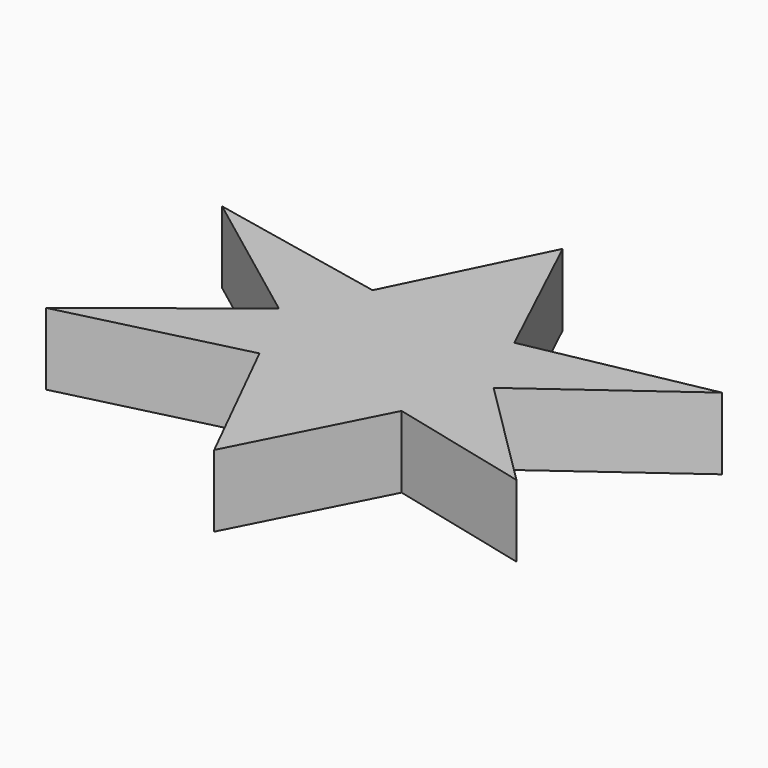
from build123d import *

# Parameters (mm, degrees)
PAD_DEPTH = 20


with BuildPart() as part:
    # Sketch → Pad (new body)
    with BuildSketch(Plane.XY):
        Polygon((0, 60.401379), (19.381105, 19.381105), (69.216721, 29.213652), (29.129213, 0), (60.043858, -30.715723), (20.294792, -20.931332), (0, -60.680405), (-20.677332, -19.096767), (-70.210785, -31.327248), (-30.559483, 0), (-70.210785, 29.825176), (-20.065805, 19.42926), align=None)
    extrude(amount=PAD_DEPTH)


solid = part.part
